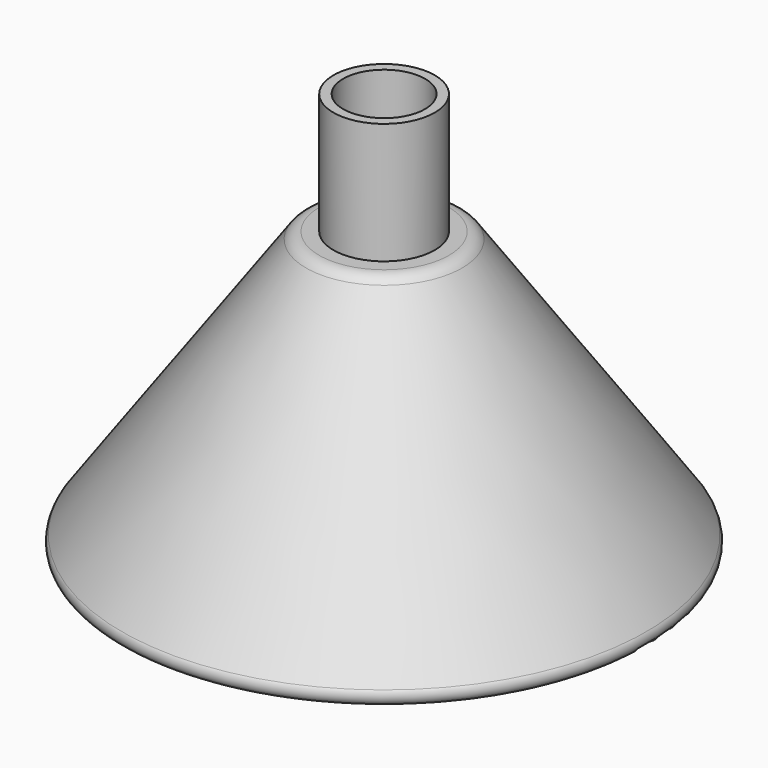
from build123d import *

# Parameters (mm, degrees)
F0_R     = 15.7
F0_R_2   = 12.7
F1_DEPTH = 50
F4_R     = 12.7
F5_DEPTH = 6
F7_DEPTH = 1.5
F9_DEPTH = 1.5
F10_R    = 5
F11_R    = 3


with BuildPart() as f1:
    # F0 (on Top) → F1 (new body)
    with BuildSketch(Plane.XY):
        Circle(F0_R)
        Circle(F0_R_2, mode=Mode.SUBTRACT)
    extrude(amount=F1_DEPTH)

    # F2 (on Right) → F3 (revolve)
    with BuildSketch(Plane.YZ):
        Polygon((22.7, 12.5), (15.7, 12.5), (15.7, 0), (77.5868, -75), (84.5868, -75), align=None)
    revolve(axis=Axis((0, 0, -38.817684), (0, 0, -1)))

    # F4 (on face) → F5 (join)
    with BuildSketch(Plane(origin=(0, 0, 0), x_dir=(1, 0, 0), z_dir=(0, 0, -1))):
        Circle(F4_R)
    extrude(amount=-F5_DEPTH)

    # F6 (on Right) → F7 (join, symmetric)
    with BuildSketch(Plane.YZ):
        Polygon((77.5868, -75), (15.7, 0), (0, 0), (-15.7, 0), (-77.5868, -75), (0, -75), align=None)
    extrude(amount=F7_DEPTH, both=True)

    # F8 (on Front) → F9 (join, symmetric)
    with BuildSketch(Plane.XZ):
        Polygon((77.5868, -75), (15.7, 0), (-15.7, 0), (-77.5868, -75), (0, -75), align=None)
    extrude(amount=F9_DEPTH, both=True)

    # F10
    f10_edges = [f1.edges().sort_by_distance(p)[0] for p in [
        (0, -22.7, 12.5),
    ]]
    fillet(f10_edges, radius=F10_R)

    # F11
    f11_edges = [f1.edges().sort_by_distance(p)[0] for p in [
        (0, -84.5868, -75),
    ]]
    fillet(f11_edges, radius=F11_R)


solid = f1.part
